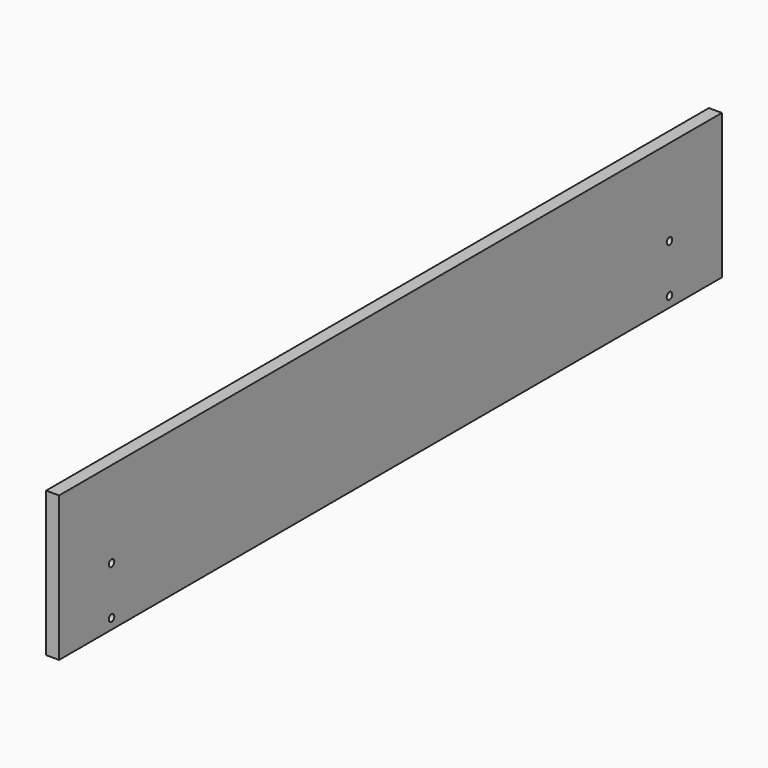
from build123d import *

# Parameters (mm, degrees)
F0_W     = 762.7112
F0_H     = 133.35
F1_DEPTH = 5.9944
F2_R     = 3.175
F3_DEPTH = 11.9888


with BuildPart() as f1:
    # F0 (on Right) → F1 (new body, symmetric)
    with BuildSketch(Plane.YZ):
        Rectangle(F0_W, F0_H)
    extrude(amount=F1_DEPTH, both=True)

    # F2 (on face) → F3 (cut, through all)
    with BuildSketch(Plane.YZ.offset(5.9944)):
        with Locations((-321.0306, -12.7)):
            Circle(F2_R)
        with Locations((-321.0306, -57.15)):
            Circle(F2_R)
        with Locations((321.0306, -57.15)):
            Circle(F2_R)
        with Locations((321.0306, -12.7)):
            Circle(F2_R)
    extrude(amount=-F3_DEPTH, mode=Mode.SUBTRACT)


solid = f1.part
